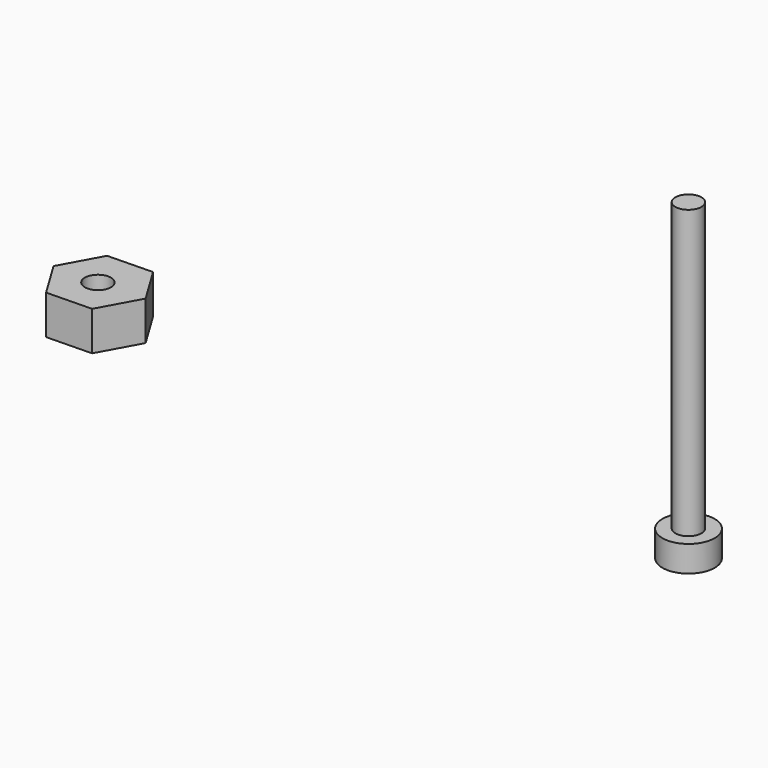
from build123d import *

# Parameters (mm, degrees)
F1_DEPTH = 4.7625
F2_R     = 1.588799
F3_DEPTH = 4.7625
F5_R     = 1.5875
F6_DEPTH = 34.925
F4_R     = 3.175
F7_DEPTH = 3.175
F9_DEPTH = 3.048


with BuildPart() as f1:
    # F0 (on Top) → F1 (new body)
    with BuildSketch(Plane.XY):
        Polygon((-28.876085, 36.136542), (-26.23186, 40.958363), (-29.085567, 45.659239), (-34.583498, 45.538294), (-37.227723, 40.716474), (-34.374016, 36.015598), align=None)
    extrude(amount=F1_DEPTH)

    # F2 (on face) → F3 (cut)
    with BuildSketch(Plane.XY.offset(4.7625)):
        with Locations((-31.834532, 40.716474)):
            Circle(F2_R)
    extrude(amount=-F3_DEPTH, mode=Mode.SUBTRACT)


with BuildPart() as f6:
    # F5 (on face) → F6 (new body)
    with BuildSketch(Plane.XY):
        with Locations((37.804537, 43.380134)):
            Circle(F5_R)
    extrude(amount=F6_DEPTH)

    # F4 (on Top) → F7 (join)
    with BuildSketch(Plane.XY):
        with Locations((37.816323, 43.383829)):
            Circle(F4_R)
    extrude(amount=-F7_DEPTH)

    # F8 (on face) → F9 (cut)
    with BuildSketch(Plane(origin=(0, 0, -3.175), x_dir=(1, 0, 0), z_dir=(0, 0, -1))):
        Polygon((39.403823, -44.300373), (39.403823, -42.467286), (37.816323, -41.550742), (36.228823, -42.467286), (36.228823, -44.300373), (37.816323, -45.216916), align=None)
    extrude(amount=-F9_DEPTH, mode=Mode.SUBTRACT)


solid = Compound([f1.part, f6.part])
